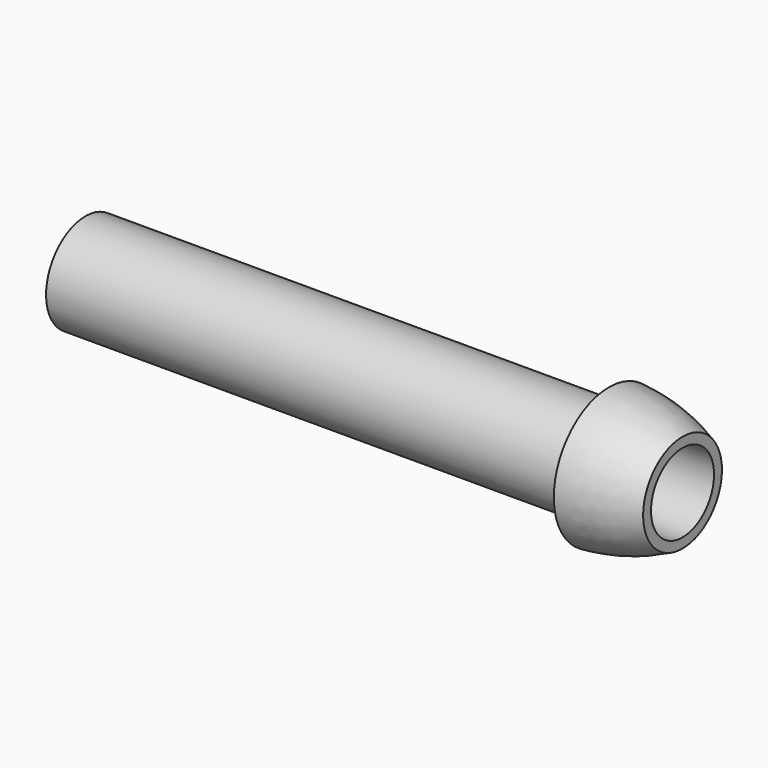
from build123d import *


with BuildPart() as f1:
    # F0 (on Front) → F1 (revolve)
    with BuildSketch(Plane.XZ):
        with BuildLine():
            Line((-60.604591, 5), (-60.604591, 4))
            Line((-60.604591, 4), (0, 4))
            Line((0, 4), (0, 5))
            ThreePointArc((0, 5), (-3.63454, 6.363916), (-7.464102, 7))
            Line((-7.464102, 7), (-7.464102, 5))
            Line((-7.464102, 5), (-60.604591, 5))
        make_face()
    revolve(axis=Axis((0.596334, 0, 0), (1, 0, 0)))


solid = f1.part
